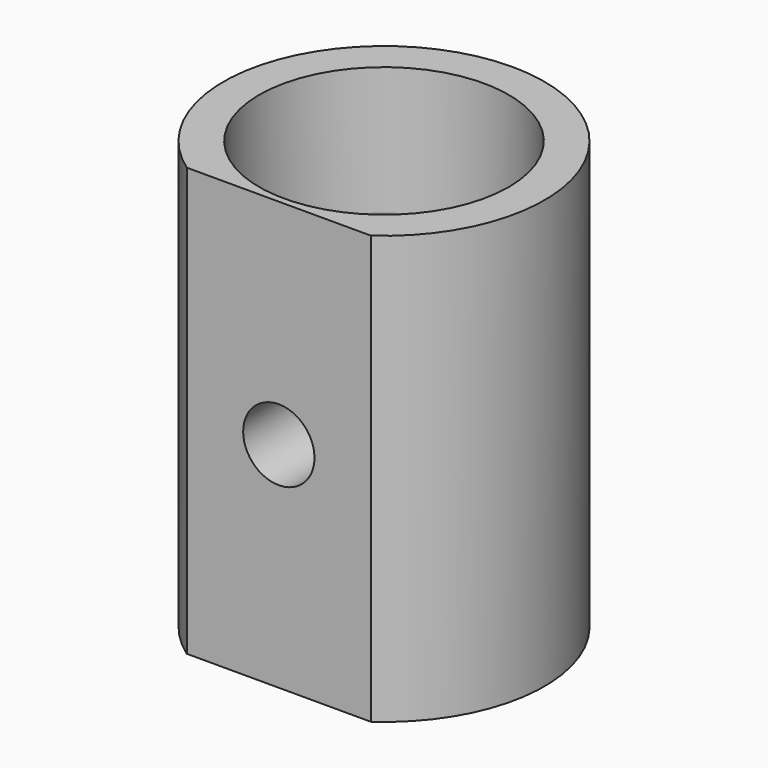
from build123d import *

# Parameters (mm, degrees)
F0_R          = 11.25
F1_DEPTH      = 15
F1_DEPTH_BACK = 15
F4_DEPTH      = 30.001
F2_R          = 8.75
F5_DEPTH      = 11
F3_R          = 8.75
F6_DEPTH      = 11
F8_D          = 5
F9_R          = 2
F10_R         = 2


with BuildPart() as f1:
    # F0 (on Top) → F1 (new body, two sides)
    with BuildSketch(Plane.XY) as f1_sk:
        Circle(F0_R)
    extrude(amount=F1_DEPTH)
    extrude(f1_sk.sketch, amount=-F1_DEPTH_BACK)

    # F2 (on face) → F4 (cut, through all)
    with BuildSketch(Plane.XY.offset(15)):
        with BuildLine():
            Line((6.4527349089, -9.2154604983), (-6.4527349089, -9.2154604983))
            ThreePointArc((-6.4527349089, -9.2154604983), (0, -11.25), (6.4527349089, -9.2154604983))
        make_face()
    extrude(amount=-F4_DEPTH, mode=Mode.SUBTRACT)

    # F2 (on face) → F5 (cut)
    with BuildSketch(Plane.XY.offset(15)):
        Circle(F2_R)
    extrude(amount=-F5_DEPTH, mode=Mode.SUBTRACT)

    # F3 (on face) → F6 (cut)
    with BuildSketch(Plane(origin=(0, 0, -15), x_dir=(1, 0, 0), z_dir=(0, 0, -1))):
        Circle(F3_R)
    extrude(amount=-F6_DEPTH, mode=Mode.SUBTRACT)

    # F8 (through all)
    with Locations(Plane.XZ.offset(9.2154604983)):
        with Locations((0, 0)):
            Hole(F8_D / 2)

    # F9
    f9_edges = [f1.edges().sort_by_distance(p)[0] for p in [
        (-8.75, 0, 4),
    ]]
    fillet(f9_edges, radius=F9_R)

    # F10
    f10_edges = [f1.edges().sort_by_distance(p)[0] for p in [
        (-8.75, 0, -4),
    ]]
    fillet(f10_edges, radius=F10_R)


solid = f1.part
